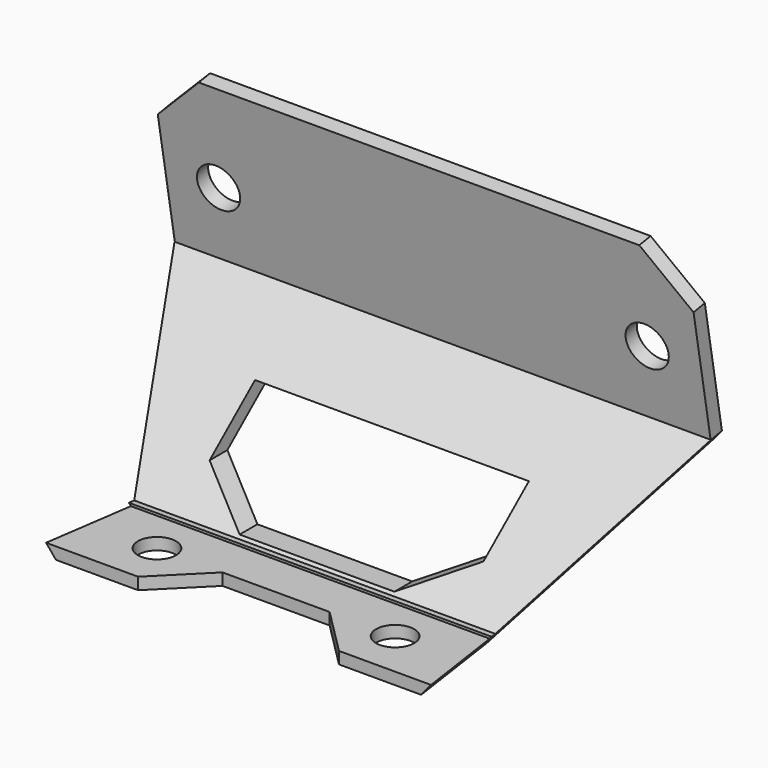
from build123d import *

# Parameters (mm, degrees)
PAD006_DEPTH            = 22.5
POCKET009_DEPTH         = 29
SKETCH013_R             = 1.6
POCKET010_DEPTH         = 5
SKETCH014_R             = 1.8
POCKET006_DEPTH         = 5
CHAMFER001_SIZE         = 4
POCKET007_DEPTH         = 7
SKETCH016_W             = 8
SKETCH016_H             = 36.404098
POCKET008_DEPTH         = 0.2
BODY003_PLACEMENT_ANGLE = 270


with BuildPart() as part:
    # Sketch011 → Pad006 (new body, symmetric)
    with BuildSketch(Plane.XZ):
        Polygon((0, 0), (8.4367642811, 0), (8.4367642811, 1.2), (0.4367642811, 1.2), (-12.998966821, 12.4739170124), (-10.5145511425, 26.563738482), (-11.6963204461, 26.7721162952), (-14.3010431111, 12), align=None)
    extrude(amount=PAD006_DEPTH, both=True)

    # Sketch012 (on Face7 of Pad006) → Pocket009 (cut)
    with BuildSketch(Plane(origin=(-15.9219347561, 0, 2.8074666826), x_dir=(-0.1736481777, 0, -0.984807753), z_dir=(-0.984807753, 0, 0.1736481777))):
        Polygon((-10, -22.5), (0, -14.1090036882), (0, -23.5), (-10, -23.5), align=None)
        Polygon((-10, 22.5), (0, 14.1090036882), (0, 23.5), (-10, 23.5), align=None)
    extrude(amount=-POCKET009_DEPTH, mode=Mode.SUBTRACT)

    # Sketch013 (on Face7 of Pocket009) → Pocket010 (cut)
    with BuildSketch(Plane(origin=(0, 0, 1.2), x_dir=(-1, 0, 0), z_dir=(0, 0, 1))):
        with Locations((-4.5, 10)):
            Circle(SKETCH013_R)
        with Locations((-4.5, -10)):
            Circle(SKETCH013_R)
        Polygon((-9.5, -9.5), (-4.5, -4.5), (-4.5, 4.5), (-9.5, 9.5), align=None)
    extrude(amount=-POCKET010_DEPTH, mode=Mode.SUBTRACT)

    # Sketch014 (on Face13 of Pocket010) → Pocket006 (cut)
    with BuildSketch(Plane(origin=(-15.9219347561, 0, 2.8074666826), x_dir=(-0.1736481777, 0, -0.984807753), z_dir=(-0.984807753, 0, 0.1736481777))):
        with Locations((-16, 18)):
            Circle(SKETCH014_R)
        with Locations((-16, -18)):
            Circle(SKETCH014_R)
    extrude(amount=-POCKET006_DEPTH, mode=Mode.SUBTRACT)

    # Chamfer001
    chamfer001_edges = [part.edges().sort_by_distance(p)[0] for p in [
        (-11.105436, -22.5, 26.667927),
        (-11.105436, 22.5, 26.667927),
    ]]
    chamfer(chamfer001_edges, length=CHAMFER001_SIZE)

    # Sketch015 → Pocket007 (cut, symmetric)
    with BuildSketch(Plane(origin=(-5.5127970494, 0, 0), x_dir=(0, 0, 1), z_dir=(1, 0, 0))):
        Polygon((1.4, 6.5), (1.4, -6.5), (4, -11.5), (8, -11.5), (8, 11.5), (4, 11.5), align=None)
    extrude(amount=POCKET007_DEPTH, both=True, mode=Mode.SUBTRACT)

    # Sketch016 (on Face16 of Pocket007) → Pocket008 (cut)
    with BuildSketch(Plane(origin=(0, 0, 1.2), x_dir=(-1, 0, 0), z_dir=(0, 0, 1))):
        with Locations((-4.90745, 0)):
            Rectangle(SKETCH016_W, SKETCH016_H)
    extrude(amount=-POCKET008_DEPTH, mode=Mode.SUBTRACT)


with BuildPart() as part_1:
    # Body003 placement: moved
    add(part.part.moved(Location((0, 119, 3.6))).rotate(Axis((0, 119, 3.6), (0, 0, 1)), BODY003_PLACEMENT_ANGLE))


solid = part_1.part
